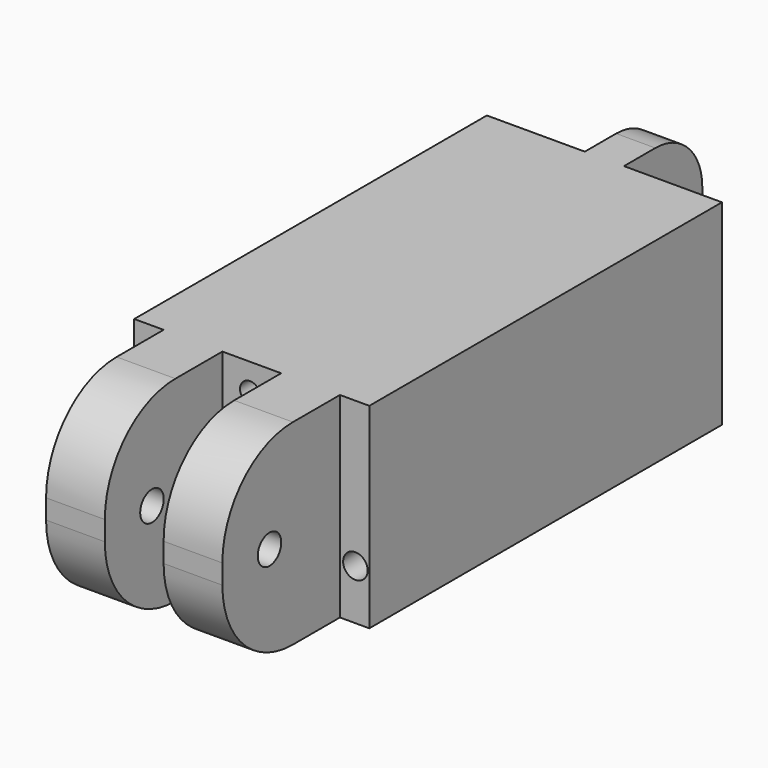
from build123d import *

# Parameters (mm, degrees)
PAD_DEPTH       = 20
FILLET_R        = 9
FILLET001_R     = 9
FILLET002_R     = 9
FILLET003_R     = 9
FILLET004_R     = 6
FILLET005_R     = 6
SKETCH002_R     = 1.5
POCKET001_DEPTH = 14.001
SKETCH003_R     = 1.5
POCKET_DEPTH    = 21.001
SKETCH004_R     = 1.25
POCKET002_DEPTH = 55.001
SKETCH005_R     = 1.031889
POCKET003_DEPTH = 55.001


with BuildPart() as part:
    # Sketch → Pad (new body)
    with BuildSketch(Plane.XY):
        Polygon((-56.419573, 26.722219), (-46.419573, 26.722219), (-46.419573, 36.722219), (-42.419573, 36.722219), (-42.419573, 26.722219), (-32.419573, 26.722219), (-32.419573, -18.277781), (-35.419573, -18.277781), (-35.419573, -33.277781), (-41.419573, -33.277781), (-41.419573, -18.277781), (-47.419573, -18.277781), (-47.419573, -33.277781), (-53.419573, -33.277781), (-53.419573, -18.277781), (-56.419573, -18.277781), align=None)
    extrude(amount=PAD_DEPTH)

    # Fillet
    fillet_edges = [part.edges().sort_by_distance(p)[0] for p in [
        (-50.419573, -33.277781, 0),
    ]]
    fillet(fillet_edges, radius=FILLET_R)

    # Fillet001
    fillet001_edges = [part.edges().sort_by_distance(p)[0] for p in [
        (-50.419573, -33.277781, 20),
    ]]
    fillet(fillet001_edges, radius=FILLET001_R)

    # Fillet002
    fillet002_edges = [part.edges().sort_by_distance(p)[0] for p in [
        (-38.419573, -33.277781, 20),
    ]]
    fillet(fillet002_edges, radius=FILLET002_R)

    # Fillet003
    fillet003_edges = [part.edges().sort_by_distance(p)[0] for p in [
        (-38.419573, -33.277781, 0),
    ]]
    fillet(fillet003_edges, radius=FILLET003_R)

    # Fillet004
    fillet004_edges = [part.edges().sort_by_distance(p)[0] for p in [
        (-44.419573, 36.722219, 20),
    ]]
    fillet(fillet004_edges, radius=FILLET004_R)

    # Fillet005
    fillet005_edges = [part.edges().sort_by_distance(p)[0] for p in [
        (-44.419573, 36.722219, 0),
    ]]
    fillet(fillet005_edges, radius=FILLET005_R)

    # Sketch002 → Pocket001 (cut, through all)
    with BuildSketch(Plane.YZ.offset(-42.419573)):
        with Locations((31.587833, 9.786681)):
            Circle(SKETCH002_R)
    extrude(amount=-POCKET001_DEPTH, mode=Mode.SUBTRACT)

    # Sketch003 (on Face14 of Pocket001) → Pocket (cut, through all)
    with BuildSketch(Plane.YZ.offset(-35.419573)):
        with Locations((-27.264815, 9.786693)):
            Circle(SKETCH003_R)
    extrude(amount=-POCKET_DEPTH, mode=Mode.SUBTRACT)

    # Sketch004 (on Face15 of Pocket) → Pocket002 (cut, through all)
    with BuildSketch(Plane.XZ.offset(18.277781)):
        with Locations((-54.815166, 5.040761)):
            Circle(SKETCH004_R)
        with Locations((-33.842335, 5.136092)):
            Circle(SKETCH004_R)
    extrude(amount=-POCKET002_DEPTH, mode=Mode.SUBTRACT)

    # Sketch005 (on Face20 of Pocket002) → Pocket003 (cut, through all)
    with BuildSketch(Plane.XZ.offset(18.277781)):
        with Locations((-44.591709, 17.229778)):
            Circle(SKETCH005_R)
    extrude(amount=-POCKET003_DEPTH, mode=Mode.SUBTRACT)


solid = part.part
